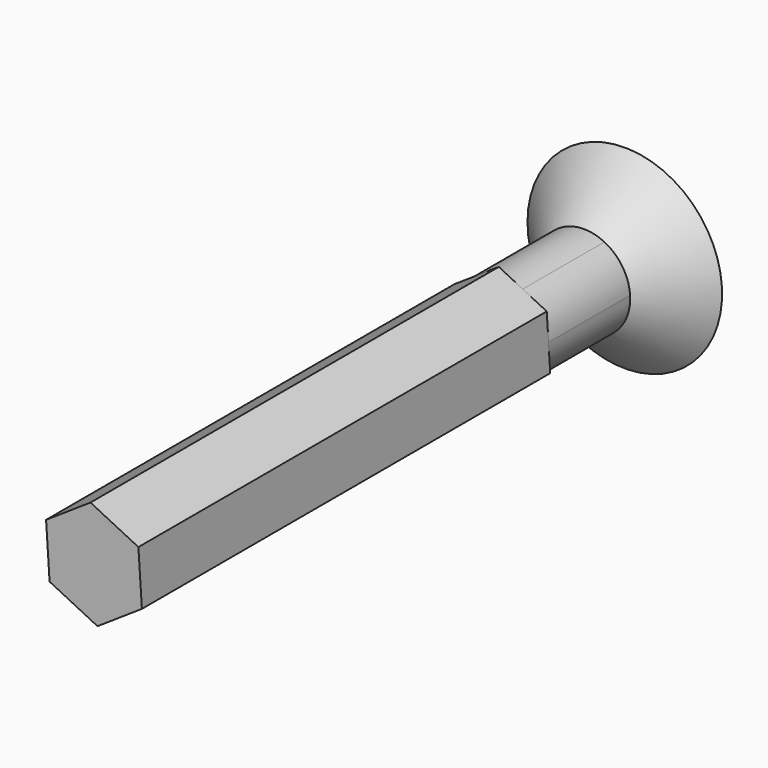
from build123d import *

# Parameters (mm, degrees)
F1_DEPTH  = 150
F3_DEPTH  = 30
F3_FACE_R = 13.5946213818
F4_DEPTH  = 15
F4_TAPER  = -45


with BuildPart() as f1:
    # F0 (on Front) → F1 (new body)
    with BuildSketch(Plane.XZ):
        Polygon((13.0521743593, 8.7211840853), (-1.0266797893, 15.6641066124), (-14.0788541486, 6.9429225271), (-13.0521743593, -8.7211840853), (1.0266797893, -15.6641066124), (14.0788541486, -6.9429225271), align=None)
    extrude(amount=F1_DEPTH)

    # F2 (on face) → F3 (join)
    with BuildSketch(Plane(origin=(0, 0, 0), x_dir=(-1, 0, 0), z_dir=(0, 1, 0))):
        with BuildLine():
            ThreePointArc((13.5655142354, -0.8891310612), (13.5873426467, -0.4448036842), (13.5946213818, 0))
            ThreePointArc((13.5946213818, 0), (11.9893857748, 6.4084599756), (7.5527673124, 11.3035143403))
            ThreePointArc((7.5527673124, 11.3035143403), (0.8891311409, 13.5655142302), (-6.012747005, 12.1926454869))
            ThreePointArc((-6.012747005, 12.1926454869), (-11.3035143729, 7.5527672636), (-13.565514228, 0.8891311747))
            ThreePointArc((-13.565514228, 0.8891311747), (-12.1926455438, -6.0127468897), (-7.5527673722, -11.3035143003))
            ThreePointArc((-7.5527673722, -11.3035143003), (-0.8891308824, -13.5655142471), (6.0127475341, -12.192645226))
            ThreePointArc((6.0127475341, -12.192645226), (11.3035145684, -7.552766971), (13.5655142354, -0.8891310612))
        make_face()
    extrude(amount=F3_DEPTH)

    # F3_face (on face) → F4 (join)
    with BuildSketch(Plane(origin=(0, 30, 0), x_dir=(-1, 0, 0), z_dir=(0, 1, 0))):
        Circle(F3_FACE_R)
    extrude(amount=F4_DEPTH, taper=F4_TAPER)


solid = f1.part
